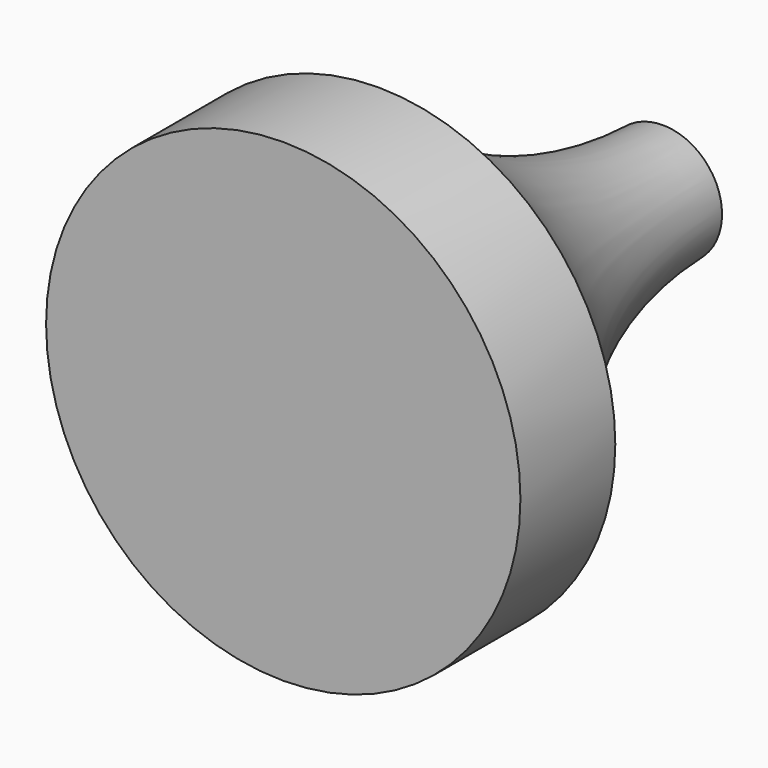
from build123d import *


with BuildPart() as f1:
    # F0 (on Top) → F1 (revolve)
    with BuildSketch(Plane.XY):
        with BuildLine():
            Line((0, -14.983773), (0, 10.416227))
            Line((0, 10.416227), (-3.175, 10.416227))
            ThreePointArc((-3.175, 10.416227), (-5.829143, -0.162951), (-12.7, -8.633773))
            Line((-12.7, -8.633773), (-12.7, -14.983773))
            Line((-12.7, -14.983773), (0, -14.983773))
        make_face()
    revolve(axis=Axis((0, -2.283773, 0), (0, -1, 0)))


solid = f1.part
